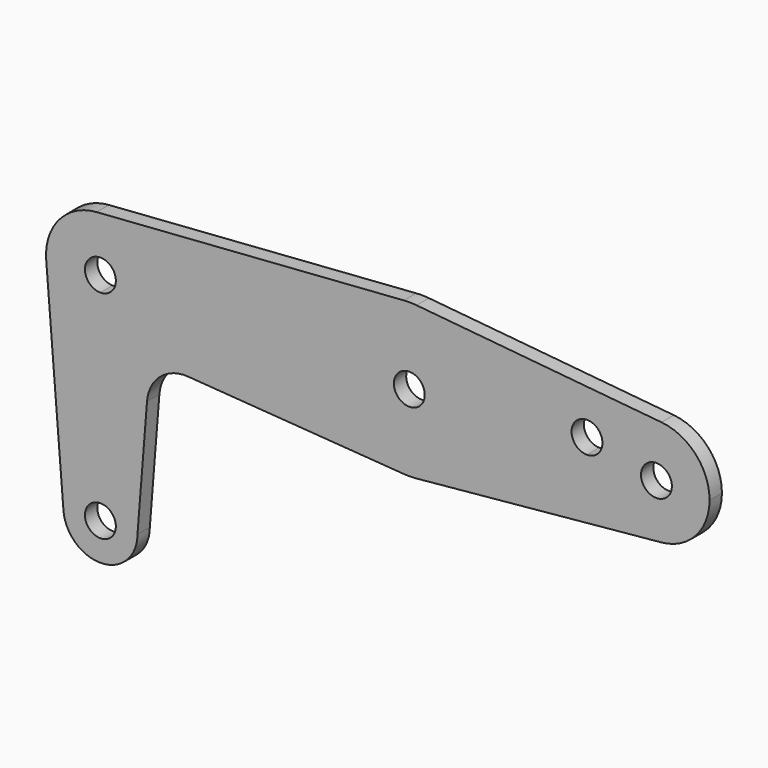
from build123d import *

# Parameters (mm, degrees)
F1_DEPTH = 3.175


with BuildPart() as f1:
    # F0 (on Front) → F1 (new body)
    with BuildSketch(Plane.XZ):
        with BuildLine():
            ThreePointArc((0, 7.62), (-5.599533552, 5.1681354471), (-7.5955768603, -0.6096))
            ThreePointArc((-7.5955768603, -0.6096), (0.3050445253, -7.6138917669), (7.62, 0))
            ThreePointArc((7.62, 0), (5.3881536726, 5.3881536726), (0, 7.62))
        make_face()
        with BuildLine():
            ThreePointArc((3.175, 0), (-2.2450640303, -2.2450640303), (0, 3.175))
            ThreePointArc((0, 3.175), (2.2450640303, 2.2450640303), (3.175, 0))
        make_face(mode=Mode.SUBTRACT)
        with BuildLine():
            Line((-11.140179395, 43.55592), (-7.5955768603, -0.6096))
            ThreePointArc((-7.5955768603, -0.6096), (-5.599533552, 5.1681354471), (0, 7.62))
            Line((0, 7.62), (0, 33.274))
            ThreePointArc((0, 33.274), (-7.5799319891, 36.2373507904), (-11.140179395, 43.55592))
        make_face()
        with BuildLine():
            Line((62.366144, 60.1571281452), (-0.804672, 55.5969941676))
            ThreePointArc((-0.804672, 55.5969941676), (7.612816881, 52.6321754525), (11.176, 44.45))
            Line((11.176, 44.45), (47.752, 44.45))
            ThreePointArc((47.752, 44.45), (51.9705709533, 55.1771510596), (62.366144, 60.1571281452))
        make_face()
        with BuildLine():
            ThreePointArc((79.248, 44.45), (75.1524558974, 33.8566164253), (64.99606, 28.7732239132))
            Line((64.99606, 28.7732239132), (115.33759, 33.5773972301))
            ThreePointArc((115.33759, 33.5773972301), (106.9529759079, 36.3684580067), (103.378, 44.45))
            Line((103.378, 44.45), (100.0252, 44.45))
            Line((100.0252, 44.45), (79.248, 44.45))
        make_face()
        with BuildLine():
            ThreePointArc((125.222, 44.45), (122.3815419933, 51.7970240921), (115.33759, 55.3226027699))
            ThreePointArc((115.33759, 55.3226027699), (106.9529759079, 52.5315419933), (103.378, 44.45))
            ThreePointArc((103.378, 44.45), (106.9529759079, 36.3684580067), (115.33759, 33.5773972301))
            ThreePointArc((115.33759, 33.5773972301), (122.3815419933, 37.1029759079), (125.222, 44.45))
        make_face()
        with BuildLine():
            ThreePointArc((117.475, 44.45), (114.3, 41.275), (111.125, 44.45))
            ThreePointArc((111.125, 44.45), (114.3, 47.625), (117.475, 44.45))
        make_face(mode=Mode.SUBTRACT)
        with BuildLine():
            ThreePointArc((-0.804672, 55.5969941676), (-8.4803735466, 51.7291648223), (-11.140179395, 43.55592))
            ThreePointArc((-11.140179395, 43.55592), (-7.5799319891, 36.2373507904), (0, 33.274))
            Line((0, 33.274), (0, 41.275))
            ThreePointArc((0, 41.275), (-2.2450640303, 46.6950640303), (3.175, 44.45))
            Line((3.175, 44.45), (11.176, 44.45))
            ThreePointArc((11.176, 44.45), (7.612816881, 52.6321754525), (-0.804672, 55.5969941676))
        make_face()
        with BuildLine():
            ThreePointArc((64.99606, 60.1267760868), (63.6817367499, 60.1969513162), (62.366144, 60.1571281452))
            ThreePointArc((62.366144, 60.1571281452), (51.9705709533, 55.1771510596), (47.752, 44.45))
            Line((47.752, 44.45), (60.325, 44.45))
            ThreePointArc((60.325, 44.45), (63.5, 47.625), (66.675, 44.45))
            Line((66.675, 44.45), (79.248, 44.45))
            ThreePointArc((79.248, 44.45), (75.1524558974, 55.0433835747), (64.99606, 60.1267760868))
        make_face()
        with BuildLine():
            ThreePointArc((47.752, 44.45), (51.970558664, 33.7228621488), (62.3661080111, 28.7428744527))
            ThreePointArc((62.3661080111, 28.7428744527), (63.6817187098, 28.7030484756), (64.99606, 28.7732239132))
            ThreePointArc((64.99606, 28.7732239132), (75.1524558974, 33.8566164253), (79.248, 44.45))
            Line((79.248, 44.45), (66.675, 44.45))
            ThreePointArc((66.675, 44.45), (63.5, 41.275), (60.325, 44.45))
            Line((60.325, 44.45), (47.752, 44.45))
        make_face()
        with BuildLine():
            Line((115.33759, 55.3226027699), (64.99606, 60.1267760868))
            ThreePointArc((64.99606, 60.1267760868), (75.1524558974, 55.0433835747), (79.248, 44.45))
            Line((79.248, 44.45), (100.0252, 44.45))
            Line((100.0252, 44.45), (103.378, 44.45))
            ThreePointArc((103.378, 44.45), (106.9529759079, 52.5315419933), (115.33759, 55.3226027699))
        make_face()
        with BuildLine():
            ThreePointArc((103.2002, 47.625), (102.2702640303, 45.3799359697), (100.0252, 44.45))
            ThreePointArc((100.0252, 44.45), (97.7801359697, 49.8700640303), (103.2002, 47.625))
        make_face(mode=Mode.SUBTRACT)
        with BuildLine():
            Line((0, 41.275), (0, 33.274))
            ThreePointArc((0, 33.274), (7.9026253865, 36.5473746135), (11.176, 44.45))
            Line((11.176, 44.45), (3.175, 44.45))
            ThreePointArc((3.175, 44.45), (2.2450640303, 42.2049359697), (0, 41.275))
        make_face()
        with BuildLine():
            ThreePointArc((0, 7.62), (5.3881536726, 5.3881536726), (7.62, 0))
            Line((7.62, 0), (9.5838374982, 24.7157604221))
            ThreePointArc((9.5838374982, 24.7157604221), (12.3022276898, 30.0648572861), (18.000044724, 31.9456452964))
            Line((18.000044724, 31.9456452964), (62.3661080111, 28.7428744527))
            ThreePointArc((62.3661080111, 28.7428744527), (51.970558664, 33.7228621488), (47.752, 44.45))
            Line((47.752, 44.45), (11.176, 44.45))
            ThreePointArc((11.176, 44.45), (7.9026253865, 36.5473746135), (0, 33.274))
            Line((0, 33.274), (0, 7.62))
        make_face()
    extrude(amount=F1_DEPTH)


solid = f1.part
